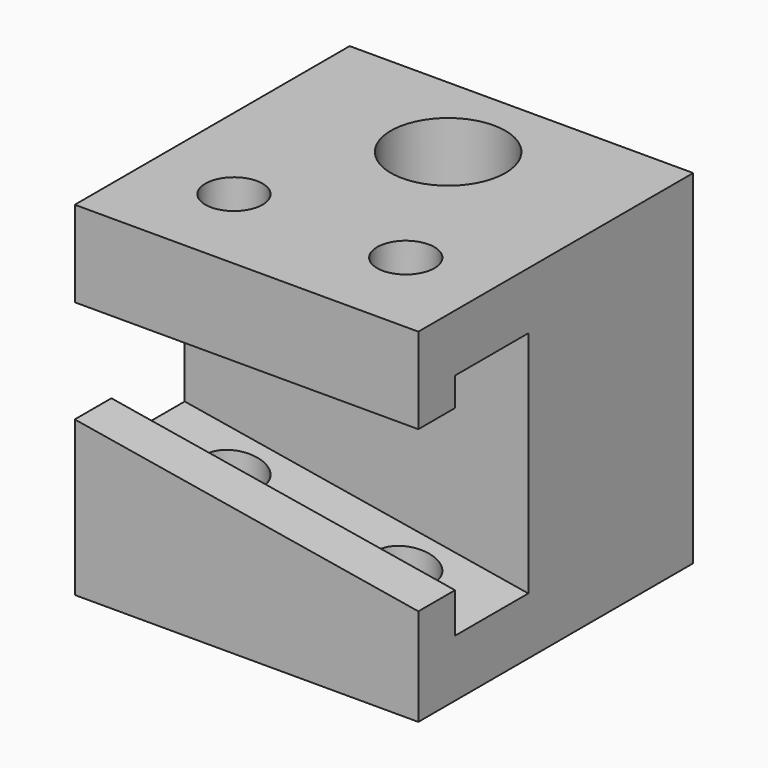
from build123d import *

# Parameters (mm, degrees)
F0_W     = 76.2
F0_H     = 76.2
F0_R     = 6.35
F0_R_2   = 12.7
F1_DEPTH = 76.2


with BuildPart() as f1:
    # F0 (on Top) → F1 (new body)
    with BuildSketch(Plane.XY):
        with Locations((0.88422, 5.430127)):
            Rectangle(F0_W, F0_H)
        with Locations((-18.16578, -12.349873)):
            Circle(F0_R, mode=Mode.SUBTRACT)
        with Locations((19.93422, -12.349873)):
            Circle(F0_R, mode=Mode.SUBTRACT)
        with Locations((0.88422, 23.210127)):
            Circle(F0_R_2, mode=Mode.SUBTRACT)
    extrude(amount=F1_DEPTH)

    # F2 (on face) → F4 section 0
    with BuildSketch(Plane.YZ.offset(38.98422)):
        Polygon((-22.509873, 57.15), (-32.669873, 57.15), (-32.669873, 21.59), (-22.509873, 21.59), (-22.509873, 12.7), (-2.189873, 12.7), (-2.189873, 63.5), (-22.509873, 63.5), align=None)
    # F3 (on face) → F4 section 1
    with BuildSketch(Plane(origin=(-37.21578, 0, 0), x_dir=(0, -1, 0), z_dir=(-1, 0, 0))):
        Polygon((22.509873, 34.29), (32.669873, 34.29), (32.669873, 57.15), (22.509873, 57.15), (22.509873, 63.5), (2.189873, 63.5), (2.189873, 25.4), (22.509873, 25.4), align=None)
    loft(mode=Mode.SUBTRACT)


solid = f1.part
